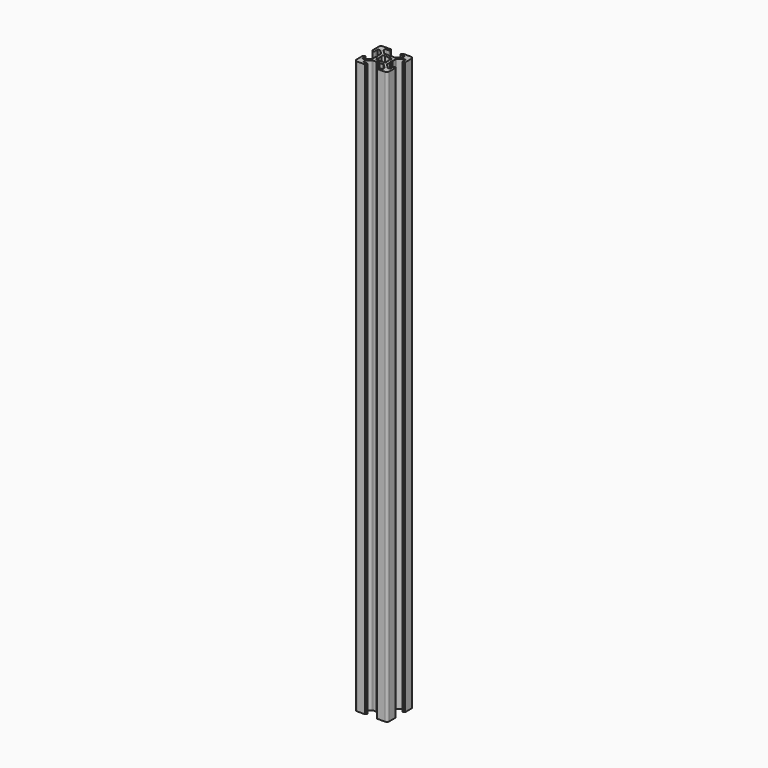
from build123d import *

# Parameters (mm, degrees)
PAD_DEPTH        = 5
POCKET_DEPTH     = 5.001
EXTRUDE001_DEPTH = 470
EXTRUDE002_DEPTH = 350


with BuildPart() as pocket:
    # Sketch → Pad (new body)
    with BuildSketch(Plane(origin=(1.5, 0, 0), x_dir=(1, 0, 0), z_dir=(0, 0, 1))):
        with BuildLine():
            Line((0, 20), (4.65, 20))
            ThreePointArc((4.85, 19.8), (4.791421, 19.941421), (4.65, 20))
            Line((4.85, 19.8), (4.85, 19.5))
            Line((4.85, 19.5), (5.2, 19.5))
            ThreePointArc((5.4, 19.3), (5.341421, 19.441421), (5.2, 19.5))
            Line((5.4, 19.3), (5.4, 19))
            ThreePointArc((4.9, 18.5), (5.253553, 18.646446), (5.4, 19))
            Line((4.9, 18.5), (2.999999, 18.5))
            ThreePointArc((2.999999, 18.5), (2.646446, 18.353553), (2.499999, 18))
            Line((2.499999, 18), (2.499999, 17.267767))
            ThreePointArc((2.499999, 17.267767), (2.53806, 17.076425), (2.646446, 16.914213))
            Line((2.646446, 16.914213), (4.914213, 14.646447))
            ThreePointArc((4.914213, 14.646447), (5.076424, 14.53806), (5.267766, 14.5))
            Line((5.267766, 14.5), (7.54641, 14.5))
            ThreePointArc((7.64641, 14.473205), (7.598173, 14.493185), (7.54641, 14.5))
            Line((7.64641, 14.473205), (8.4, 14.03812))
            ThreePointArc((8.4, 14.03812), (8.5, 14.011325), (8.6, 14.03812))
            Line((8.6, 14.03812), (9.35359, 14.473205))
            ThreePointArc((9.45359, 14.5), (9.401827, 14.493185), (9.35359, 14.473205))
            Line((9.45359, 14.5), (11.732234, 14.5))
            ThreePointArc((11.732234, 14.5), (11.923576, 14.53806), (12.085787, 14.646447))
            Line((12.085787, 14.646447), (14.353554, 16.914213))
            ThreePointArc((14.353554, 16.914213), (14.46194, 17.076425), (14.500001, 17.267767))
            Line((14.500001, 17.267767), (14.500001, 18))
            ThreePointArc((14.500001, 18), (14.353554, 18.353553), (14.000001, 18.5))
            Line((14.000001, 18.5), (12.1, 18.5))
            ThreePointArc((11.6, 19), (11.746447, 18.646446), (12.1, 18.5))
            Line((11.6, 19), (11.6, 19.3))
            ThreePointArc((11.8, 19.5), (11.658579, 19.441421), (11.6, 19.3))
            Line((11.8, 19.5), (12.15, 19.5))
            Line((12.15, 19.5), (12.15, 19.8))
            ThreePointArc((12.35, 20), (12.208579, 19.941421), (12.15, 19.8))
            Line((12.35, 20), (17, 20))
            ThreePointArc((18.5, 18.5), (18.06066, 19.56066), (17, 20))
            Line((18.5, 18.5), (18.5, 13.85))
            ThreePointArc((18.3, 13.65), (18.441421, 13.708578), (18.5, 13.85))
            Line((18.3, 13.65), (18, 13.65))
            Line((18, 13.65), (18, 13.3))
            ThreePointArc((17.8, 13.1), (17.941421, 13.158579), (18, 13.3))
            Line((17.8, 13.1), (17.5, 13.1))
            ThreePointArc((17, 13.6), (17.146446, 13.246447), (17.5, 13.1))
            Line((17, 13.6), (17, 15.5))
            ThreePointArc((17, 15.5), (16.853553, 15.853553), (16.5, 16))
            Line((16.5, 16), (15.767767, 16))
            ThreePointArc((15.767767, 16), (15.576425, 15.961939), (15.414213, 15.853553))
            Line((15.414213, 15.853553), (13.146446, 13.585786))
            ThreePointArc((13.146446, 13.585786), (13.03806, 13.423574), (13, 13.232233))
            Line((13, 13.232233), (13, 10.953589))
            ThreePointArc((12.973205, 10.853589), (12.993185, 10.901825), (13, 10.953589))
            Line((12.973205, 10.853589), (12.53812, 10.1))
            ThreePointArc((12.53812, 10.1), (12.511325, 10), (12.53812, 9.9))
            Line((12.53812, 9.9), (12.973205, 9.146411))
            ThreePointArc((13, 9.046411), (12.993185, 9.098175), (12.973205, 9.146411))
            Line((13, 9.046411), (13, 6.767767))
            ThreePointArc((13, 6.767767), (13.03806, 6.576426), (13.146446, 6.414214))
            Line((13.146446, 6.414214), (15.414213, 4.146447))
            ThreePointArc((15.414213, 4.146447), (15.576425, 4.038061), (15.767767, 4))
            Line((15.767767, 4), (16.5, 4))
            ThreePointArc((16.5, 4), (16.853553, 4.146447), (17, 4.5))
            Line((17, 4.5), (17, 6.4))
            ThreePointArc((17.5, 6.9), (17.146446, 6.753553), (17, 6.4))
            Line((17.5, 6.9), (17.8, 6.9))
            ThreePointArc((18, 6.7), (17.941421, 6.841421), (17.8, 6.9))
            Line((18, 6.7), (18, 6.35))
            Line((18, 6.35), (18.3, 6.35))
            ThreePointArc((18.5, 6.15), (18.441421, 6.291422), (18.3, 6.35))
            Line((18.5, 6.15), (18.5, 1.5))
            ThreePointArc((17, 0), (18.06066, 0.43934), (18.5, 1.5))
            Line((17, 0), (12.35, 0))
            ThreePointArc((12.15, 0.2), (12.208579, 0.058579), (12.35, 0))
            Line((12.15, 0.2), (12.15, 0.5))
            Line((12.15, 0.5), (11.8, 0.5))
            ThreePointArc((11.6, 0.7), (11.658579, 0.558579), (11.8, 0.5))
            Line((11.6, 0.7), (11.6, 1))
            ThreePointArc((12.1, 1.5), (11.746447, 1.353554), (11.6, 1))
            Line((12.1, 1.5), (14.000001, 1.5))
            ThreePointArc((14.000001, 1.5), (14.353554, 1.646447), (14.500001, 2))
            Line((14.500001, 2), (14.500001, 2.732233))
            ThreePointArc((14.500001, 2.732233), (14.46194, 2.923575), (14.353554, 3.085787))
            Line((14.353554, 3.085787), (12.085787, 5.353553))
            ThreePointArc((12.085787, 5.353553), (11.923576, 5.46194), (11.732234, 5.5))
            Line((11.732234, 5.5), (9.45359, 5.5))
            ThreePointArc((9.35359, 5.526795), (9.401827, 5.506815), (9.45359, 5.5))
            Line((9.35359, 5.526795), (8.6, 5.96188))
            ThreePointArc((8.6, 5.96188), (8.5, 5.988675), (8.4, 5.96188))
            Line((8.4, 5.96188), (7.64641, 5.526795))
            ThreePointArc((7.54641, 5.5), (7.598173, 5.506815), (7.64641, 5.526795))
            Line((7.54641, 5.5), (5.267766, 5.5))
            ThreePointArc((5.267766, 5.5), (5.076424, 5.46194), (4.914213, 5.353553))
            Line((4.914213, 5.353553), (2.646446, 3.085787))
            ThreePointArc((2.646446, 3.085787), (2.53806, 2.923575), (2.499999, 2.732233))
            Line((2.499999, 2.732233), (2.499999, 2))
            ThreePointArc((2.499999, 2), (2.646446, 1.646447), (2.999999, 1.5))
            Line((2.999999, 1.5), (4.9, 1.5))
            ThreePointArc((5.4, 1), (5.253553, 1.353554), (4.9, 1.5))
            Line((5.4, 1), (5.4, 0.7))
            ThreePointArc((5.2, 0.5), (5.341421, 0.558579), (5.4, 0.7))
            Line((5.2, 0.5), (4.85, 0.5))
            Line((4.85, 0.5), (4.85, 0.2))
            ThreePointArc((4.65, 0), (4.791421, 0.058579), (4.85, 0.2))
            Line((4.65, 0), (0, 0))
            ThreePointArc((-1.5, 1.5), (-1.06066, 0.43934), (0, 0))
            Line((-1.5, 1.5), (-1.5, 6.15))
            ThreePointArc((-1.3, 6.35), (-1.441421, 6.291422), (-1.5, 6.15))
            Line((-1.3, 6.35), (-1, 6.35))
            Line((-1, 6.35), (-1, 6.7))
            ThreePointArc((-0.8, 6.9), (-0.941421, 6.841421), (-1, 6.7))
            Line((-0.8, 6.9), (-0.5, 6.9))
            ThreePointArc((0, 6.4), (-0.146446, 6.753553), (-0.5, 6.9))
            Line((0, 6.4), (0, 4.5))
            ThreePointArc((0, 4.5), (0.146447, 4.146447), (0.5, 4))
            Line((0.5, 4), (1.232233, 4))
            ThreePointArc((1.232233, 4), (1.423575, 4.038061), (1.585787, 4.146447))
            Line((1.585787, 4.146447), (3.853554, 6.414214))
            ThreePointArc((3.853554, 6.414214), (3.96194, 6.576426), (4, 6.767767))
            Line((4, 6.767767), (4, 9.046411))
            ThreePointArc((4.026795, 9.146411), (4.006815, 9.098175), (4, 9.046411))
            Line((4.026795, 9.146411), (4.46188, 9.9))
            ThreePointArc((4.46188, 9.9), (4.488675, 10), (4.46188, 10.1))
            Line((4.46188, 10.1), (4.026795, 10.853589))
            ThreePointArc((4, 10.953589), (4.006815, 10.901825), (4.026795, 10.853589))
            Line((4, 10.953589), (4, 13.232233))
            ThreePointArc((4, 13.232233), (3.96194, 13.423574), (3.853554, 13.585786))
            Line((3.853554, 13.585786), (1.585787, 15.853553))
            ThreePointArc((1.585787, 15.853553), (1.423575, 15.961939), (1.232233, 16))
            Line((1.232233, 16), (0.5, 16))
            ThreePointArc((0.5, 16), (0.146447, 15.853553), (0, 15.5))
            Line((0, 15.5), (0, 13.6))
            ThreePointArc((-0.5, 13.1), (-0.146446, 13.246447), (0, 13.6))
            Line((-0.5, 13.1), (-0.8, 13.1))
            ThreePointArc((-1, 13.3), (-0.941421, 13.158579), (-0.8, 13.1))
            Line((-1, 13.3), (-1, 13.65))
            Line((-1, 13.65), (-1.3, 13.65))
            ThreePointArc((-1.5, 13.85), (-1.441421, 13.708578), (-1.3, 13.65))
            Line((-1.5, 13.85), (-1.5, 18.5))
            ThreePointArc((0, 20), (-1.06066, 19.56066), (-1.5, 18.5))
        make_face()
    extrude(amount=PAD_DEPTH)

    # Sketch001 → Pocket (cut, through all)
    with BuildSketch(Plane(origin=(1.5, 0, 5), x_dir=(1, 0, 0), z_dir=(0, 0, 1))):
        with BuildLine():
            ThreePointArc((6.586105, 12.989641), (5.988263, 12.50841), (5.507825, 11.909931))
            Line((6.054705, 11.258185), (5.507825, 11.909931))
            ThreePointArc((6.054705, 11.258185), (5.75, 10), (6.054705, 8.741815))
            Line((5.507825, 8.090069), (6.054705, 8.741815))
            ThreePointArc((5.507825, 8.090069), (5.988263, 7.49159), (6.586105, 7.010359))
            Line((7.241815, 7.554705), (6.586105, 7.010359))
            ThreePointArc((7.241815, 7.554705), (8.5, 7.25), (9.758185, 7.554705))
            Line((10.413895, 7.010359), (9.758185, 7.554705))
            ThreePointArc((10.413895, 7.010359), (11.011737, 7.49159), (11.492175, 8.090069))
            Line((10.945295, 8.741815), (11.492175, 8.090069))
            ThreePointArc((10.945295, 8.741815), (11.25, 10), (10.945295, 11.258185))
            Line((11.492175, 11.909931), (10.945295, 11.258185))
            ThreePointArc((11.492175, 11.909931), (11.011737, 12.50841), (10.413895, 12.989641))
            Line((9.758185, 12.445295), (10.413895, 12.989641))
            ThreePointArc((9.758185, 12.445295), (8.5, 12.75), (7.241815, 12.445295))
            Line((6.586105, 12.989641), (7.241815, 12.445295))
        make_face()
    extrude(amount=-POCKET_DEPTH, mode=Mode.SUBTRACT)


with BuildPart() as extrude001:
    # Sketch001 → Extrude001 (new body)
    with BuildSketch(Plane(origin=(1.5, 0, 5), x_dir=(1, 0, 0), z_dir=(0, 0, 1))):
        with BuildLine():
            ThreePointArc((6.586105, 12.989641), (5.988263, 12.50841), (5.507825, 11.909931))
            Line((6.054705, 11.258185), (5.507825, 11.909931))
            ThreePointArc((6.054705, 11.258185), (5.75, 10), (6.054705, 8.741815))
            Line((5.507825, 8.090069), (6.054705, 8.741815))
            ThreePointArc((5.507825, 8.090069), (5.988263, 7.49159), (6.586105, 7.010359))
            Line((7.241815, 7.554705), (6.586105, 7.010359))
            ThreePointArc((7.241815, 7.554705), (8.5, 7.25), (9.758185, 7.554705))
            Line((10.413895, 7.010359), (9.758185, 7.554705))
            ThreePointArc((10.413895, 7.010359), (11.011737, 7.49159), (11.492175, 8.090069))
            Line((10.945295, 8.741815), (11.492175, 8.090069))
            ThreePointArc((10.945295, 8.741815), (11.25, 10), (10.945295, 11.258185))
            Line((11.492175, 11.909931), (10.945295, 11.258185))
            ThreePointArc((11.492175, 11.909931), (11.011737, 12.50841), (10.413895, 12.989641))
            Line((9.758185, 12.445295), (10.413895, 12.989641))
            ThreePointArc((9.758185, 12.445295), (8.5, 12.75), (7.241815, 12.445295))
            Line((6.586105, 12.989641), (7.241815, 12.445295))
        make_face()
    extrude(amount=EXTRUDE001_DEPTH)


with BuildPart() as extrude001_1:
    # Extrude001 placement: moved
    add(extrude001.part.moved(Location((0, 0, -25))))


with BuildPart() as cut:
    # Sketch → Extrude002 (new body)
    with BuildSketch(Plane(origin=(1.5, 0, 0), x_dir=(1, 0, 0), z_dir=(0, 0, 1))):
        with BuildLine():
            Line((0, 20), (4.65, 20))
            ThreePointArc((4.85, 19.8), (4.791421, 19.941421), (4.65, 20))
            Line((4.85, 19.8), (4.85, 19.5))
            Line((4.85, 19.5), (5.2, 19.5))
            ThreePointArc((5.4, 19.3), (5.341421, 19.441421), (5.2, 19.5))
            Line((5.4, 19.3), (5.4, 19))
            ThreePointArc((4.9, 18.5), (5.253553, 18.646446), (5.4, 19))
            Line((4.9, 18.5), (2.999999, 18.5))
            ThreePointArc((2.999999, 18.5), (2.646446, 18.353553), (2.499999, 18))
            Line((2.499999, 18), (2.499999, 17.267767))
            ThreePointArc((2.499999, 17.267767), (2.53806, 17.076425), (2.646446, 16.914213))
            Line((2.646446, 16.914213), (4.914213, 14.646447))
            ThreePointArc((4.914213, 14.646447), (5.076424, 14.53806), (5.267766, 14.5))
            Line((5.267766, 14.5), (7.54641, 14.5))
            ThreePointArc((7.64641, 14.473205), (7.598173, 14.493185), (7.54641, 14.5))
            Line((7.64641, 14.473205), (8.4, 14.03812))
            ThreePointArc((8.4, 14.03812), (8.5, 14.011325), (8.6, 14.03812))
            Line((8.6, 14.03812), (9.35359, 14.473205))
            ThreePointArc((9.45359, 14.5), (9.401827, 14.493185), (9.35359, 14.473205))
            Line((9.45359, 14.5), (11.732234, 14.5))
            ThreePointArc((11.732234, 14.5), (11.923576, 14.53806), (12.085787, 14.646447))
            Line((12.085787, 14.646447), (14.353554, 16.914213))
            ThreePointArc((14.353554, 16.914213), (14.46194, 17.076425), (14.500001, 17.267767))
            Line((14.500001, 17.267767), (14.500001, 18))
            ThreePointArc((14.500001, 18), (14.353554, 18.353553), (14.000001, 18.5))
            Line((14.000001, 18.5), (12.1, 18.5))
            ThreePointArc((11.6, 19), (11.746447, 18.646446), (12.1, 18.5))
            Line((11.6, 19), (11.6, 19.3))
            ThreePointArc((11.8, 19.5), (11.658579, 19.441421), (11.6, 19.3))
            Line((11.8, 19.5), (12.15, 19.5))
            Line((12.15, 19.5), (12.15, 19.8))
            ThreePointArc((12.35, 20), (12.208579, 19.941421), (12.15, 19.8))
            Line((12.35, 20), (17, 20))
            ThreePointArc((18.5, 18.5), (18.06066, 19.56066), (17, 20))
            Line((18.5, 18.5), (18.5, 13.85))
            ThreePointArc((18.3, 13.65), (18.441421, 13.708578), (18.5, 13.85))
            Line((18.3, 13.65), (18, 13.65))
            Line((18, 13.65), (18, 13.3))
            ThreePointArc((17.8, 13.1), (17.941421, 13.158579), (18, 13.3))
            Line((17.8, 13.1), (17.5, 13.1))
            ThreePointArc((17, 13.6), (17.146446, 13.246447), (17.5, 13.1))
            Line((17, 13.6), (17, 15.5))
            ThreePointArc((17, 15.5), (16.853553, 15.853553), (16.5, 16))
            Line((16.5, 16), (15.767767, 16))
            ThreePointArc((15.767767, 16), (15.576425, 15.961939), (15.414213, 15.853553))
            Line((15.414213, 15.853553), (13.146446, 13.585786))
            ThreePointArc((13.146446, 13.585786), (13.03806, 13.423574), (13, 13.232233))
            Line((13, 13.232233), (13, 10.953589))
            ThreePointArc((12.973205, 10.853589), (12.993185, 10.901825), (13, 10.953589))
            Line((12.973205, 10.853589), (12.53812, 10.1))
            ThreePointArc((12.53812, 10.1), (12.511325, 10), (12.53812, 9.9))
            Line((12.53812, 9.9), (12.973205, 9.146411))
            ThreePointArc((13, 9.046411), (12.993185, 9.098175), (12.973205, 9.146411))
            Line((13, 9.046411), (13, 6.767767))
            ThreePointArc((13, 6.767767), (13.03806, 6.576426), (13.146446, 6.414214))
            Line((13.146446, 6.414214), (15.414213, 4.146447))
            ThreePointArc((15.414213, 4.146447), (15.576425, 4.038061), (15.767767, 4))
            Line((15.767767, 4), (16.5, 4))
            ThreePointArc((16.5, 4), (16.853553, 4.146447), (17, 4.5))
            Line((17, 4.5), (17, 6.4))
            ThreePointArc((17.5, 6.9), (17.146446, 6.753553), (17, 6.4))
            Line((17.5, 6.9), (17.8, 6.9))
            ThreePointArc((18, 6.7), (17.941421, 6.841421), (17.8, 6.9))
            Line((18, 6.7), (18, 6.35))
            Line((18, 6.35), (18.3, 6.35))
            ThreePointArc((18.5, 6.15), (18.441421, 6.291422), (18.3, 6.35))
            Line((18.5, 6.15), (18.5, 1.5))
            ThreePointArc((17, 0), (18.06066, 0.43934), (18.5, 1.5))
            Line((17, 0), (12.35, 0))
            ThreePointArc((12.15, 0.2), (12.208579, 0.058579), (12.35, 0))
            Line((12.15, 0.2), (12.15, 0.5))
            Line((12.15, 0.5), (11.8, 0.5))
            ThreePointArc((11.6, 0.7), (11.658579, 0.558579), (11.8, 0.5))
            Line((11.6, 0.7), (11.6, 1))
            ThreePointArc((12.1, 1.5), (11.746447, 1.353554), (11.6, 1))
            Line((12.1, 1.5), (14.000001, 1.5))
            ThreePointArc((14.000001, 1.5), (14.353554, 1.646447), (14.500001, 2))
            Line((14.500001, 2), (14.500001, 2.732233))
            ThreePointArc((14.500001, 2.732233), (14.46194, 2.923575), (14.353554, 3.085787))
            Line((14.353554, 3.085787), (12.085787, 5.353553))
            ThreePointArc((12.085787, 5.353553), (11.923576, 5.46194), (11.732234, 5.5))
            Line((11.732234, 5.5), (9.45359, 5.5))
            ThreePointArc((9.35359, 5.526795), (9.401827, 5.506815), (9.45359, 5.5))
            Line((9.35359, 5.526795), (8.6, 5.96188))
            ThreePointArc((8.6, 5.96188), (8.5, 5.988675), (8.4, 5.96188))
            Line((8.4, 5.96188), (7.64641, 5.526795))
            ThreePointArc((7.54641, 5.5), (7.598173, 5.506815), (7.64641, 5.526795))
            Line((7.54641, 5.5), (5.267766, 5.5))
            ThreePointArc((5.267766, 5.5), (5.076424, 5.46194), (4.914213, 5.353553))
            Line((4.914213, 5.353553), (2.646446, 3.085787))
            ThreePointArc((2.646446, 3.085787), (2.53806, 2.923575), (2.499999, 2.732233))
            Line((2.499999, 2.732233), (2.499999, 2))
            ThreePointArc((2.499999, 2), (2.646446, 1.646447), (2.999999, 1.5))
            Line((2.999999, 1.5), (4.9, 1.5))
            ThreePointArc((5.4, 1), (5.253553, 1.353554), (4.9, 1.5))
            Line((5.4, 1), (5.4, 0.7))
            ThreePointArc((5.2, 0.5), (5.341421, 0.558579), (5.4, 0.7))
            Line((5.2, 0.5), (4.85, 0.5))
            Line((4.85, 0.5), (4.85, 0.2))
            ThreePointArc((4.65, 0), (4.791421, 0.058579), (4.85, 0.2))
            Line((4.65, 0), (0, 0))
            ThreePointArc((-1.5, 1.5), (-1.06066, 0.43934), (0, 0))
            Line((-1.5, 1.5), (-1.5, 6.15))
            ThreePointArc((-1.3, 6.35), (-1.441421, 6.291422), (-1.5, 6.15))
            Line((-1.3, 6.35), (-1, 6.35))
            Line((-1, 6.35), (-1, 6.7))
            ThreePointArc((-0.8, 6.9), (-0.941421, 6.841421), (-1, 6.7))
            Line((-0.8, 6.9), (-0.5, 6.9))
            ThreePointArc((0, 6.4), (-0.146446, 6.753553), (-0.5, 6.9))
            Line((0, 6.4), (0, 4.5))
            ThreePointArc((0, 4.5), (0.146447, 4.146447), (0.5, 4))
            Line((0.5, 4), (1.232233, 4))
            ThreePointArc((1.232233, 4), (1.423575, 4.038061), (1.585787, 4.146447))
            Line((1.585787, 4.146447), (3.853554, 6.414214))
            ThreePointArc((3.853554, 6.414214), (3.96194, 6.576426), (4, 6.767767))
            Line((4, 6.767767), (4, 9.046411))
            ThreePointArc((4.026795, 9.146411), (4.006815, 9.098175), (4, 9.046411))
            Line((4.026795, 9.146411), (4.46188, 9.9))
            ThreePointArc((4.46188, 9.9), (4.488675, 10), (4.46188, 10.1))
            Line((4.46188, 10.1), (4.026795, 10.853589))
            ThreePointArc((4, 10.953589), (4.006815, 10.901825), (4.026795, 10.853589))
            Line((4, 10.953589), (4, 13.232233))
            ThreePointArc((4, 13.232233), (3.96194, 13.423574), (3.853554, 13.585786))
            Line((3.853554, 13.585786), (1.585787, 15.853553))
            ThreePointArc((1.585787, 15.853553), (1.423575, 15.961939), (1.232233, 16))
            Line((1.232233, 16), (0.5, 16))
            ThreePointArc((0.5, 16), (0.146447, 15.853553), (0, 15.5))
            Line((0, 15.5), (0, 13.6))
            ThreePointArc((-0.5, 13.1), (-0.146446, 13.246447), (0, 13.6))
            Line((-0.5, 13.1), (-0.8, 13.1))
            ThreePointArc((-1, 13.3), (-0.941421, 13.158579), (-0.8, 13.1))
            Line((-1, 13.3), (-1, 13.65))
            Line((-1, 13.65), (-1.3, 13.65))
            ThreePointArc((-1.5, 13.85), (-1.441421, 13.708578), (-1.3, 13.65))
            Line((-1.5, 13.85), (-1.5, 18.5))
            ThreePointArc((0, 20), (-1.06066, 19.56066), (-1.5, 18.5))
        make_face()
    extrude(amount=EXTRUDE002_DEPTH)

    # Cut: cut Extrude001
    add(extrude001_1.part, mode=Mode.SUBTRACT)


solid = Compound([pocket.part, cut.part])
